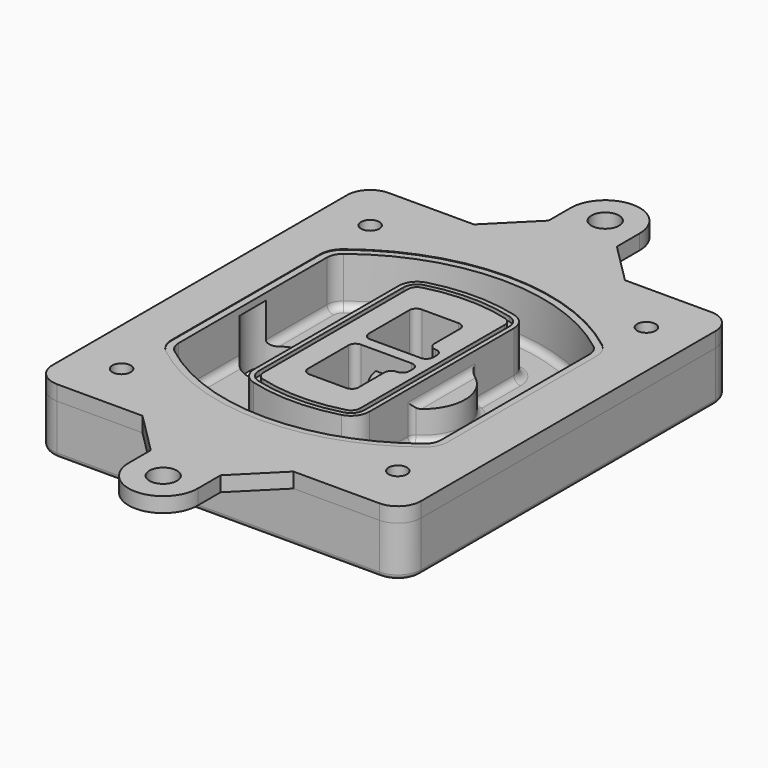
from build123d import *

# Parameters (mm, degrees)
F0_R      = 4
F1_DEPTH  = 25
F2_DEPTH  = 3
F3_DEPTH  = 18
F5_DEPTH  = 21
F6_DEPTH  = 2
F8_DEPTH  = 20
F9_DEPTH  = 16
F10_DEPTH = 25
F7_R      = 6
F7_R_2    = 4
F11_DEPTH = 6
F13_DEPTH = 9
F14_R     = 3
F15_R     = 2
F16_R     = 4
F16_R_2   = 6
F17_DEPTH = 3.25


with BuildPart() as f1:
    # F0 (on Top) → F1 (new body)
    with BuildSketch(Plane.XY):
        with BuildLine():
            ThreePointArc((-80, -80), (-77.0710678119, -87.0710678119), (-70, -90))
            Line((-70, -90), (70, -90))
            ThreePointArc((70, -90), (77.0710678119, -87.0710678119), (80, -80))
            Line((80, -80), (80, 80))
            ThreePointArc((80, 80), (77.0710678119, 87.0710678119), (70, 90))
            Line((70, 90), (-70, 90))
            ThreePointArc((-70, 90), (-77.0710678119, 87.0710678119), (-80, 80))
            Line((-80, 80), (-80, -80))
        make_face()
        with Locations((-60, -67.5)):
            Circle(F0_R, mode=Mode.SUBTRACT)
        with Locations((60, -67.5)):
            Circle(F0_R, mode=Mode.SUBTRACT)
        with Locations((-60, 67.5)):
            Circle(F0_R, mode=Mode.SUBTRACT)
        with BuildLine():
            ThreePointArc((-64, 40.2934422872), (-62.5820384798, 46.4328484224), (-58.6153846154, 51.3286200352))
            ThreePointArc((-58.6153846154, 51.3286200352), (0, 71.5), (58.6153846154, 51.3286200352))
            ThreePointArc((58.6153846154, 51.3286200352), (62.5820384798, 46.4328484224), (64, 40.2934422872))
            Line((64, 40.2934422872), (64, -40.2934422872))
            ThreePointArc((64, -40.2934422872), (62.5820384798, -46.4328484224), (58.6153846154, -51.3286200352))
            ThreePointArc((58.6153846154, -51.3286200352), (0, -71.5), (-58.6153846154, -51.3286200352))
            ThreePointArc((-58.6153846154, -51.3286200352), (-62.5820384798, -46.4328484224), (-64, -40.2934422872))
            Line((-64, -40.2934422872), (-64, 40.2934422872))
        make_face(mode=Mode.SUBTRACT)
        with Locations((60, 67.5)):
            Circle(F0_R, mode=Mode.SUBTRACT)
        with BuildLine():
            ThreePointArc((58.6153846154, 51.3286200352), (0, 71.5), (-58.6153846154, 51.3286200352))
            ThreePointArc((-58.6153846154, 51.3286200352), (-62.5820384798, 46.4328484224), (-64, 40.2934422872))
            Line((-64, 40.2934422872), (-64, -40.2934422872))
            ThreePointArc((-64, -40.2934422872), (-62.5820384798, -46.4328484224), (-58.6153846154, -51.3286200352))
            ThreePointArc((-58.6153846154, -51.3286200352), (0, -71.5), (58.6153846154, -51.3286200352))
            ThreePointArc((58.6153846154, -51.3286200352), (62.5820384798, -46.4328484224), (64, -40.2934422872))
            Line((64, -40.2934422872), (64, 40.2934422872))
            ThreePointArc((64, 40.2934422872), (62.5820384798, 46.4328484224), (58.6153846154, 51.3286200352))
        make_face()
        with BuildLine():
            Line((-60, -40.2934422872), (-60, 40.2934422872))
            ThreePointArc((-60, 40.2934422872), (-58.9871703427, 44.6787323838), (-56.1538461538, 48.1757121072))
            ThreePointArc((-56.1538461538, 48.1757121072), (0, 67.5), (56.1538461538, 48.1757121072))
            ThreePointArc((56.1538461538, 48.1757121072), (58.9871703427, 44.6787323838), (60, 40.2934422872))
            Line((60, 40.2934422872), (60, -40.2934422872))
            ThreePointArc((60, -40.2934422872), (58.9871703427, -44.6787323838), (56.1538461538, -48.1757121072))
            ThreePointArc((56.1538461538, -48.1757121072), (0, -67.5), (-56.1538461538, -48.1757121072))
            ThreePointArc((-56.1538461538, -48.1757121072), (-58.9871703427, -44.6787323838), (-60, -40.2934422872))
        make_face(mode=Mode.SUBTRACT)
        with BuildLine():
            ThreePointArc((-56.1538461538, 48.1757121072), (-58.9871703427, 44.6787323838), (-60, 40.2934422872))
            Line((-60, 40.2934422872), (-60, -40.2934422872))
            ThreePointArc((-60, -40.2934422872), (-58.9871703427, -44.6787323838), (-56.1538461538, -48.1757121072))
            ThreePointArc((-56.1538461538, -48.1757121072), (0, -67.5), (56.1538461538, -48.1757121072))
            ThreePointArc((56.1538461538, -48.1757121072), (58.9871703427, -44.6787323838), (60, -40.2934422872))
            Line((60, -40.2934422872), (60, 40.2934422872))
            ThreePointArc((60, 40.2934422872), (58.9871703427, 44.6787323838), (56.1538461538, 48.1757121072))
            ThreePointArc((56.1538461538, 48.1757121072), (0, 67.5), (-56.1538461538, 48.1757121072))
        make_face()
        with BuildLine():
            ThreePointArc((54.3076923077, 45.8110311612), (56.2910192399, 43.3631453548), (57, 40.2934422872))
            Line((57, 40.2934422872), (57, -40.2934422872))
            ThreePointArc((57, -40.2934422872), (56.2910192399, -43.3631453548), (54.3076923077, -45.8110311612))
            ThreePointArc((54.3076923077, -45.8110311612), (0, -64.5), (-54.3076923077, -45.8110311612))
            ThreePointArc((-54.3076923077, -45.8110311612), (-56.2910192399, -43.3631453548), (-57, -40.2934422872))
            Line((-57, -40.2934422872), (-57, 40.2934422872))
            ThreePointArc((-57, 40.2934422872), (-56.2910192399, 43.3631453548), (-54.3076923077, 45.8110311612))
            ThreePointArc((-54.3076923077, 45.8110311612), (0, 64.5), (54.3076923077, 45.8110311612))
        make_face(mode=Mode.SUBTRACT)
        with BuildLine():
            Line((57, -40.2934422872), (57, 40.2934422872))
            ThreePointArc((57, 40.2934422872), (56.2910192399, 43.3631453548), (54.3076923077, 45.8110311612))
            ThreePointArc((54.3076923077, 45.8110311612), (0, 64.5), (-54.3076923077, 45.8110311612))
            ThreePointArc((-54.3076923077, 45.8110311612), (-56.2910192399, 43.3631453548), (-57, 40.2934422872))
            Line((-57, 40.2934422872), (-57, -40.2934422872))
            ThreePointArc((-57, -40.2934422872), (-56.2910192399, -43.3631453548), (-54.3076923077, -45.8110311612))
            ThreePointArc((-54.3076923077, -45.8110311612), (0, -64.5), (54.3076923077, -45.8110311612))
            ThreePointArc((54.3076923077, -45.8110311612), (56.2910192399, -43.3631453548), (57, -40.2934422872))
        make_face()
    extrude(amount=-F1_DEPTH)

    # F0 (on Top) → F2 (join)
    with BuildSketch(Plane.XY):
        with BuildLine():
            ThreePointArc((-56.1538461538, 48.1757121072), (-58.9871703427, 44.6787323838), (-60, 40.2934422872))
            Line((-60, 40.2934422872), (-60, -40.2934422872))
            ThreePointArc((-60, -40.2934422872), (-58.9871703427, -44.6787323838), (-56.1538461538, -48.1757121072))
            ThreePointArc((-56.1538461538, -48.1757121072), (0, -67.5), (56.1538461538, -48.1757121072))
            ThreePointArc((56.1538461538, -48.1757121072), (58.9871703427, -44.6787323838), (60, -40.2934422872))
            Line((60, -40.2934422872), (60, 40.2934422872))
            ThreePointArc((60, 40.2934422872), (58.9871703427, 44.6787323838), (56.1538461538, 48.1757121072))
            ThreePointArc((56.1538461538, 48.1757121072), (0, 67.5), (-56.1538461538, 48.1757121072))
        make_face()
        with BuildLine():
            ThreePointArc((54.3076923077, 45.8110311612), (56.2910192399, 43.3631453548), (57, 40.2934422872))
            Line((57, 40.2934422872), (57, -40.2934422872))
            ThreePointArc((57, -40.2934422872), (56.2910192399, -43.3631453548), (54.3076923077, -45.8110311612))
            ThreePointArc((54.3076923077, -45.8110311612), (0, -64.5), (-54.3076923077, -45.8110311612))
            ThreePointArc((-54.3076923077, -45.8110311612), (-56.2910192399, -43.3631453548), (-57, -40.2934422872))
            Line((-57, -40.2934422872), (-57, 40.2934422872))
            ThreePointArc((-57, 40.2934422872), (-56.2910192399, 43.3631453548), (-54.3076923077, 45.8110311612))
            ThreePointArc((-54.3076923077, 45.8110311612), (0, 64.5), (54.3076923077, 45.8110311612))
        make_face(mode=Mode.SUBTRACT)
    extrude(amount=F2_DEPTH)

    # F0 (on Top) → F3 (cut)
    with BuildSketch(Plane.XY):
        with BuildLine():
            Line((57, -40.2934422872), (57, 40.2934422872))
            ThreePointArc((57, 40.2934422872), (56.2910192399, 43.3631453548), (54.3076923077, 45.8110311612))
            ThreePointArc((54.3076923077, 45.8110311612), (0, 64.5), (-54.3076923077, 45.8110311612))
            ThreePointArc((-54.3076923077, 45.8110311612), (-56.2910192399, 43.3631453548), (-57, 40.2934422872))
            Line((-57, 40.2934422872), (-57, -40.2934422872))
            ThreePointArc((-57, -40.2934422872), (-56.2910192399, -43.3631453548), (-54.3076923077, -45.8110311612))
            ThreePointArc((-54.3076923077, -45.8110311612), (0, -64.5), (54.3076923077, -45.8110311612))
            ThreePointArc((54.3076923077, -45.8110311612), (56.2910192399, -43.3631453548), (57, -40.2934422872))
        make_face()
    extrude(amount=-F3_DEPTH, mode=Mode.SUBTRACT)

    # F4 (on face) → F5 (join, through all)
    with BuildSketch(Plane.XY.offset(3)):
        with BuildLine():
            ThreePointArc((-25, -39.2465276821), (-23.3511545998, -44.1109737193), (-19.0842911877, -46.9702398883))
            ThreePointArc((-19.0842911877, -46.9702398883), (0, -49.5), (19.0842911877, -46.9702398883))
            ThreePointArc((19.0842911877, -46.9702398883), (23.3511545998, -44.1109737193), (25, -39.2465276821))
            Line((25, -39.2465276821), (25, 39.2465276821))
            ThreePointArc((25, 39.2465276821), (23.3511545998, 44.1109737193), (19.0842911877, 46.9702398883))
            ThreePointArc((19.0842911877, 46.9702398883), (0, 49.5), (-19.0842911877, 46.9702398883))
            ThreePointArc((-19.0842911877, 46.9702398883), (-23.3511545998, 44.1109737193), (-25, 39.2465276821))
            Line((-25, 39.2465276821), (-25, -39.2465276821))
        make_face()
        with BuildLine():
            ThreePointArc((18.5632183908, 45.0393118368), (21.7633659499, 42.89486221), (23, 39.2465276821))
            Line((23, 39.2465276821), (23, -39.2465276821))
            ThreePointArc((23, -39.2465276821), (21.7633659499, -42.89486221), (18.5632183908, -45.0393118368))
            ThreePointArc((18.5632183908, -45.0393118368), (0, -47.5), (-18.5632183908, -45.0393118368))
            ThreePointArc((-18.5632183908, -45.0393118368), (-21.7633659499, -42.89486221), (-23, -39.2465276821))
            Line((-23, -39.2465276821), (-23, 39.2465276821))
            ThreePointArc((-23, 39.2465276821), (-21.7633659499, 42.89486221), (-18.5632183908, 45.0393118368))
            ThreePointArc((-18.5632183908, 45.0393118368), (0, 47.5), (18.5632183908, 45.0393118368))
        make_face(mode=Mode.SUBTRACT)
        with BuildLine():
            Line((23, -39.2465276821), (23, 39.2465276821))
            ThreePointArc((23, 39.2465276821), (21.7633659499, 42.89486221), (18.5632183908, 45.0393118368))
            ThreePointArc((18.5632183908, 45.0393118368), (0, 47.5), (-18.5632183908, 45.0393118368))
            ThreePointArc((-18.5632183908, 45.0393118368), (-21.7633659499, 42.89486221), (-23, 39.2465276821))
            Line((-23, 39.2465276821), (-23, -39.2465276821))
            ThreePointArc((-23, -39.2465276821), (-21.7633659499, -42.89486221), (-18.5632183908, -45.0393118368))
            ThreePointArc((-18.5632183908, -45.0393118368), (0, -47.5), (18.5632183908, -45.0393118368))
            ThreePointArc((18.5632183908, -45.0393118368), (21.7633659499, -42.89486221), (23, -39.2465276821))
        make_face()
        with BuildLine():
            ThreePointArc((18.0421455939, 43.1083837852), (20.1755772999, 41.6787507007), (21, 39.2465276821))
            Line((21, 39.2465276821), (21, -39.2465276821))
            ThreePointArc((21, -39.2465276821), (20.1755772999, -41.6787507007), (18.0421455939, -43.1083837852))
            ThreePointArc((18.0421455939, -43.1083837852), (0, -45.5), (-18.0421455939, -43.1083837852))
            ThreePointArc((-18.0421455939, -43.1083837852), (-20.1755772999, -41.6787507007), (-21, -39.2465276821))
            Line((-21, -39.2465276821), (-21, 39.2465276821))
            ThreePointArc((-21, 39.2465276821), (-20.1755772999, 41.6787507007), (-18.0421455939, 43.1083837852))
            ThreePointArc((-18.0421455939, 43.1083837852), (0, 45.5), (18.0421455939, 43.1083837852))
        make_face(mode=Mode.SUBTRACT)
        with BuildLine():
            Line((21, -39.2465276821), (21, 39.2465276821))
            ThreePointArc((21, 39.2465276821), (20.1755772999, 41.6787507007), (18.0421455939, 43.1083837852))
            ThreePointArc((18.0421455939, 43.1083837852), (0, 45.5), (-18.0421455939, 43.1083837852))
            ThreePointArc((-18.0421455939, 43.1083837852), (-20.1755772999, 41.6787507007), (-21, 39.2465276821))
            Line((-21, 39.2465276821), (-21, -39.2465276821))
            ThreePointArc((-21, -39.2465276821), (-20.1755772999, -41.6787507007), (-18.0421455939, -43.1083837852))
            ThreePointArc((-18.0421455939, -43.1083837852), (0, -45.5), (18.0421455939, -43.1083837852))
            ThreePointArc((18.0421455939, -43.1083837852), (20.1755772999, -41.6787507007), (21, -39.2465276821))
        make_face()
        with BuildLine():
            Line((-8, -2.5), (14, -2.5))
            ThreePointArc((14, -2.5), (16.1213203436, -3.3786796564), (17, -5.5))
            Line((17, -5.5), (17, -7.5))
            ThreePointArc((17, -7.5), (16.1213203436, -9.6213203436), (14, -10.5))
            ThreePointArc((14, -10.5), (11.8786796564, -11.3786796564), (11, -13.5))
            Line((11, -13.5), (11, -27.5))
            ThreePointArc((11, -27.5), (10.1213203436, -29.6213203436), (8, -30.5))
            Line((8, -30.5), (-8, -30.5))
            ThreePointArc((-8, -30.5), (-10.1213203436, -29.6213203436), (-11, -27.5))
            Line((-11, -27.5), (-11, -5.5))
            ThreePointArc((-11, -5.5), (-10.1213203436, -3.3786796564), (-8, -2.5))
        make_face(mode=Mode.SUBTRACT)
        with BuildLine():
            ThreePointArc((-8, 2.5), (-10.1213203436, 3.3786796564), (-11, 5.5))
            Line((-11, 5.5), (-11, 27.5))
            ThreePointArc((-11, 27.5), (-10.1213203436, 29.6213203436), (-8, 30.5))
            Line((-8, 30.5), (8, 30.5))
            ThreePointArc((8, 30.5), (10.1213203436, 29.6213203436), (11, 27.5))
            Line((11, 27.5), (11, 13.5))
            ThreePointArc((11, 13.5), (11.8786796564, 11.3786796564), (14, 10.5))
            ThreePointArc((14, 10.5), (16.1213203436, 9.6213203436), (17, 7.5))
            Line((17, 7.5), (17, 5.5))
            ThreePointArc((17, 5.5), (16.1213203436, 3.3786796564), (14, 2.5))
            Line((14, 2.5), (-8, 2.5))
        make_face(mode=Mode.SUBTRACT)
    extrude(amount=-F5_DEPTH)

    # F4 (on face) → F6 (cut)
    with BuildSketch(Plane.XY.offset(3)):
        with BuildLine():
            Line((23, -39.2465276821), (23, 39.2465276821))
            ThreePointArc((23, 39.2465276821), (21.7633659499, 42.89486221), (18.5632183908, 45.0393118368))
            ThreePointArc((18.5632183908, 45.0393118368), (0, 47.5), (-18.5632183908, 45.0393118368))
            ThreePointArc((-18.5632183908, 45.0393118368), (-21.7633659499, 42.89486221), (-23, 39.2465276821))
            Line((-23, 39.2465276821), (-23, -39.2465276821))
            ThreePointArc((-23, -39.2465276821), (-21.7633659499, -42.89486221), (-18.5632183908, -45.0393118368))
            ThreePointArc((-18.5632183908, -45.0393118368), (0, -47.5), (18.5632183908, -45.0393118368))
            ThreePointArc((18.5632183908, -45.0393118368), (21.7633659499, -42.89486221), (23, -39.2465276821))
        make_face()
        with BuildLine():
            ThreePointArc((18.0421455939, 43.1083837852), (20.1755772999, 41.6787507007), (21, 39.2465276821))
            Line((21, 39.2465276821), (21, -39.2465276821))
            ThreePointArc((21, -39.2465276821), (20.1755772999, -41.6787507007), (18.0421455939, -43.1083837852))
            ThreePointArc((18.0421455939, -43.1083837852), (0, -45.5), (-18.0421455939, -43.1083837852))
            ThreePointArc((-18.0421455939, -43.1083837852), (-20.1755772999, -41.6787507007), (-21, -39.2465276821))
            Line((-21, -39.2465276821), (-21, 39.2465276821))
            ThreePointArc((-21, 39.2465276821), (-20.1755772999, 41.6787507007), (-18.0421455939, 43.1083837852))
            ThreePointArc((-18.0421455939, 43.1083837852), (0, 45.5), (18.0421455939, 43.1083837852))
        make_face(mode=Mode.SUBTRACT)
    extrude(amount=-F6_DEPTH, mode=Mode.SUBTRACT)

    # F7 (on face) → F8 (join)
    with BuildSketch(Plane(origin=(0, 0, -25), x_dir=(1, 0, 0), z_dir=(0, 0, -1))):
        with BuildLine():
            ThreePointArc((3.28842436, 0), (16.7567035675, 13.4682792075), (30.224982775, 0))
            Line((30.224982775, 0), (35.224982775, 0))
            ThreePointArc((35.224982775, 0), (16.7567035675, 18.4682792075), (-1.71157564, 0))
            Line((-1.71157564, 0), (3.28842436, 0))
        make_face()
        with BuildLine():
            Line((3.28842436, 0), (30.224982775, 0))
            ThreePointArc((30.224982775, 0), (16.7567035675, 13.4682792075), (3.28842436, 0))
        make_face()
        with BuildLine():
            ThreePointArc((3.28842436, 0), (16.7567035675, -13.4682792075), (30.224982775, 0))
            Line((30.224982775, 0), (3.28842436, 0))
        make_face()
        with BuildLine():
            Line((35.224982775, 0), (30.224982775, 0))
            ThreePointArc((30.224982775, 0), (16.7567035675, -13.4682792075), (3.28842436, 0))
            Line((3.28842436, 0), (-1.71157564, 0))
            ThreePointArc((-1.71157564, 0), (16.7567035675, -18.4682792075), (35.224982775, 0))
        make_face()
    extrude(amount=-F8_DEPTH)

    # F7 (on face) → F9 (cut)
    with BuildSketch(Plane(origin=(0, 0, -25), x_dir=(1, 0, 0), z_dir=(0, 0, -1))):
        with BuildLine():
            Line((3.28842436, 0), (30.224982775, 0))
            ThreePointArc((30.224982775, 0), (16.7567035675, 13.4682792075), (3.28842436, 0))
        make_face()
        with BuildLine():
            ThreePointArc((3.28842436, 0), (16.7567035675, -13.4682792075), (30.224982775, 0))
            Line((30.224982775, 0), (3.28842436, 0))
        make_face()
    extrude(amount=-F9_DEPTH, mode=Mode.SUBTRACT)

    # F7 (on face) → F10 (cut)
    with BuildSketch(Plane(origin=(0, 0, -25), x_dir=(1, 0, 0), z_dir=(0, 0, -1))):
        with BuildLine():
            Line((-59.0318229325, 0), (-32.0952645175, 0))
            ThreePointArc((-32.0952645175, 0), (-45.563543725, 13.4682792075), (-59.0318229325, 0))
        make_face()
        with BuildLine():
            ThreePointArc((-59.0318229325, 0), (-45.563543725, -13.4682792075), (-32.0952645175, 0))
            Line((-32.0952645175, 0), (-59.0318229325, 0))
        make_face()
    extrude(amount=-F10_DEPTH, mode=Mode.SUBTRACT)

    # F7 (on face) → F11 (cut)
    with BuildSketch(Plane(origin=(0, 0, -25), x_dir=(1, 0, 0), z_dir=(0, 0, -1))):
        with Locations((60, -67.5)):
            Circle(F7_R)
        with Locations((60, -67.5)):
            Circle(F7_R_2, mode=Mode.SUBTRACT)
        with Locations((60, -67.5)):
            Circle(F7_R)
        with Locations((60, -67.5)):
            Circle(F7_R_2, mode=Mode.SUBTRACT)
        with Locations((-60, -67.5)):
            Circle(F7_R)
        with Locations((-60, -67.5)):
            Circle(F7_R_2, mode=Mode.SUBTRACT)
        with Locations((-60, -67.5)):
            Circle(F7_R)
        with Locations((-60, -67.5)):
            Circle(F7_R_2, mode=Mode.SUBTRACT)
        with Locations((-60, 67.5)):
            Circle(F7_R)
        with Locations((-60, 67.5)):
            Circle(F7_R_2, mode=Mode.SUBTRACT)
        with Locations((-60, 67.5)):
            Circle(F7_R)
        with Locations((-60, 67.5)):
            Circle(F7_R_2, mode=Mode.SUBTRACT)
        with Locations((60, 67.5)):
            Circle(F7_R)
        with Locations((60, 67.5)):
            Circle(F7_R_2, mode=Mode.SUBTRACT)
        with Locations((60, 67.5)):
            Circle(F7_R)
        with Locations((60, 67.5)):
            Circle(F7_R_2, mode=Mode.SUBTRACT)
    extrude(amount=-F11_DEPTH, mode=Mode.SUBTRACT)

    # F12 (on face) → F13 (cut, through all)
    with BuildSketch(Plane(origin=(0, 0, -9), x_dir=(1, 0, 0), z_dir=(0, 0, -1))):
        with BuildLine():
            Line((11, 13.5), (11, 17.5481537753))
            ThreePointArc((11, 17.5481537753), (2.5696536419, 11.8239143813), (-1.5415842455, 2.5))
            Line((-1.5415842455, 2.5), (3.5224848595, 2.5))
            ThreePointArc((3.5224848595, 2.5), (6.1857188154, 8.3455872281), (11.2536447004, 12.2927168648))
            ThreePointArc((11.2536447004, 12.2927168648), (11.0640958889, 12.8831798879), (11, 13.5))
        make_face()
        with BuildLine():
            ThreePointArc((11.2536447004, -12.2927168648), (6.1857188154, -8.3455872281), (3.5224848595, -2.5))
            Line((3.5224848595, -2.5), (-1.5415842455, -2.5))
            ThreePointArc((-1.5415842455, -2.5), (2.5696536419, -11.8239143813), (11, -17.5481537753))
            Line((11, -17.5481537753), (11, -13.5))
            ThreePointArc((11, -13.5), (11.0640958889, -12.8831798879), (11.2536447004, -12.2927168648))
        make_face()
        with BuildLine():
            ThreePointArc((11.2536447004, 12.2927168648), (6.1857188154, 8.3455872281), (3.5224848595, 2.5))
            Line((3.5224848595, 2.5), (14, 2.5))
            ThreePointArc((14, 2.5), (16.1213203436, 3.3786796564), (17, 5.5))
            Line((17, 5.5), (17, 7.5))
            ThreePointArc((17, 7.5), (16.1213203436, 9.6213203436), (14, 10.5))
            ThreePointArc((14, 10.5), (12.3601599782, 10.9878446101), (11.2536447004, 12.2927168648))
        make_face()
        with BuildLine():
            Line((14, -2.5), (3.5224848595, -2.5))
            ThreePointArc((3.5224848595, -2.5), (6.1857188154, -8.3455872281), (11.2536447004, -12.2927168648))
            ThreePointArc((11.2536447004, -12.2927168648), (12.3601599782, -10.9878446101), (14, -10.5))
            ThreePointArc((14, -10.5), (16.1213203436, -9.6213203436), (17, -7.5))
            Line((17, -7.5), (17, -5.5))
            ThreePointArc((17, -5.5), (16.1213203436, -3.3786796564), (14, -2.5))
        make_face()
    extrude(amount=F13_DEPTH, mode=Mode.SUBTRACT)

    # F14
    f14_edges = [f1.edges().sort_by_distance(p)[0] for p in [
        (-57, -23.703476, -18),
        (-57, 23.703476, -18),
        (25, 0, -5),
        (25, 16.526506, -11.5),
        (25, -16.526506, -11.5),
        (25, -27.886517, -18),
        (35.224983, 0, -18),
    ]]
    fillet(f14_edges, radius=F14_R)

    # F15
    f15_edges = [f1.edges().sort_by_distance(p)[0] for p in [
        (0, -90, -25),
    ]]
    fillet(f15_edges, radius=F15_R)


with BuildPart() as f17:
    # F16 (on face) → F17 (new body, symmetric)
    with BuildSketch(Plane.XY):
        with BuildLine():
            ThreePointArc((-56.1538461538, 48.1757121072), (0, 67.5), (56.1538461538, 48.1757121072))
            ThreePointArc((56.1538461538, 48.1757121072), (58.9871703427, 44.6787323838), (60, 40.2934422872))
            Line((60, 40.2934422872), (60, 0))
            Line((60, 0), (80, 0))
            Line((80, 0), (80, 80))
            ThreePointArc((80, 80), (77.0710678119, 87.0710678119), (70, 90))
            Line((70, 90), (32.6640097185, 90))
            Line((32.6640097185, 90), (-32.9062495234, 90))
            Line((-32.9062495234, 90), (-70, 90))
            ThreePointArc((-70, 90), (-77.0710678119, 87.0710678119), (-80, 80))
            Line((-80, 80), (-80, 0))
            Line((-80, 0), (-60, 0))
            Line((-60, 0), (-60, 40.2934422872))
            ThreePointArc((-60, 40.2934422872), (-58.9871703427, 44.6787323838), (-56.1538461538, 48.1757121072))
        make_face()
        with Locations((-60, 67.5)):
            Circle(F16_R, mode=Mode.SUBTRACT)
        with Locations((60, 67.5)):
            Circle(F16_R, mode=Mode.SUBTRACT)
        with BuildLine():
            Line((80, 0), (60, 0))
            Line((60, 0), (60, -40.2934422872))
            ThreePointArc((60, -40.2934422872), (58.9871703427, -44.6787323838), (56.1538461538, -48.1757121072))
            ThreePointArc((56.1538461538, -48.1757121072), (0, -67.5), (-56.1538461538, -48.1757121072))
            ThreePointArc((-56.1538461538, -48.1757121072), (-58.9871703427, -44.6787323838), (-60, -40.2934422872))
            Line((-60, -40.2934422872), (-60, 0))
            Line((-60, 0), (-80, 0))
            Line((-80, 0), (-80, -80))
            ThreePointArc((-80, -80), (-77.0710678119, -87.0710678119), (-70, -90))
            Line((-70, -90), (-32.9062495234, -90))
            Line((-32.9062495234, -90), (32.6640097185, -90))
            Line((32.6640097185, -90), (70, -90))
            ThreePointArc((70, -90), (77.0710678119, -87.0710678119), (80, -80))
            Line((80, -80), (80, 0))
        make_face()
        with Locations((-60, -67.5)):
            Circle(F16_R, mode=Mode.SUBTRACT)
        with Locations((60, -67.5)):
            Circle(F16_R, mode=Mode.SUBTRACT)
        with BuildLine():
            Line((15.0933801484, -107.57062957), (32.6640097185, -90))
            Line((32.6640097185, -90), (-32.9062495234, -90))
            Line((-32.9062495234, -90), (-14.9062495234, -108))
            Line((-14.9062495234, -108), (-14.9062495234, -120))
            ThreePointArc((-14.9062495234, -120), (0.146452103, -134.9999074177), (15.0933801484, -119.8945973978))
            Line((15.0933801484, -119.8945973978), (15.0933801484, -107.57062957))
        make_face()
        with Locations((0.0937504766, -120)):
            Circle(F16_R_2, mode=Mode.SUBTRACT)
        with BuildLine():
            Line((-32.9062495234, 90), (32.6640097185, 90))
            Line((32.6640097185, 90), (15.0933801484, 107.57062957))
            Line((15.0933801484, 107.57062957), (15.0933801484, 119.8945973978))
            ThreePointArc((15.0933801484, 119.8945973978), (0.146452103, 134.9999074177), (-14.9062495234, 120))
            Line((-14.9062495234, 120), (-14.9062495234, 108))
            Line((-14.9062495234, 108), (-32.9062495234, 90))
        make_face()
        with Locations((0.0937504766, 120)):
            Circle(F16_R_2, mode=Mode.SUBTRACT)
    extrude(amount=F17_DEPTH, both=True)


solid = Compound([f1.part, f17.part])
